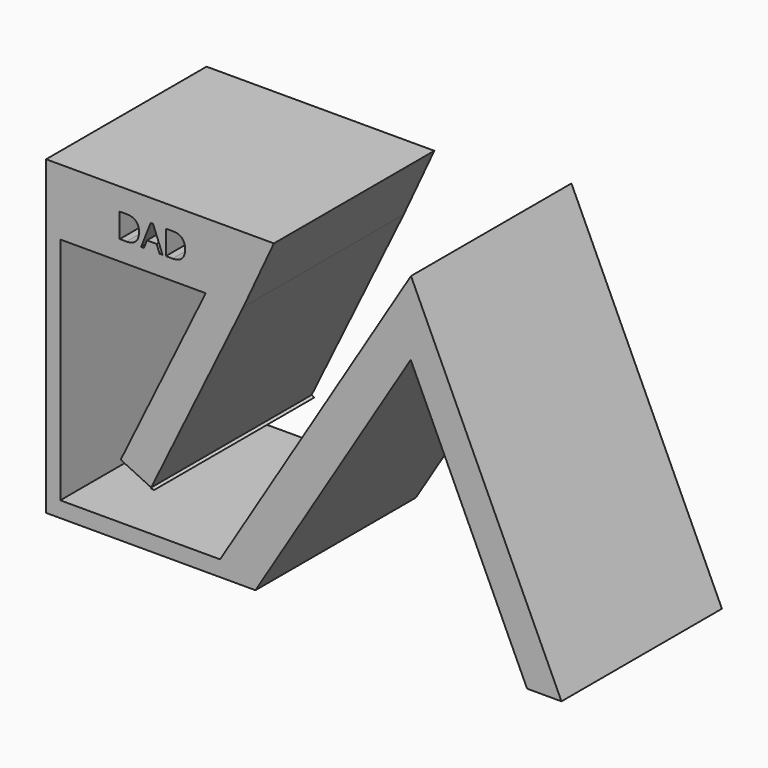
from build123d import *

# Parameters (mm, degrees)
F1_DEPTH = 25.4


with BuildPart() as f1:
    # F0 (on Front) → F1 (new body)
    with BuildSketch(Plane.XZ):
        Polygon((-14.4669092909, -10.910328379), (5.1957434184, 21.1789465251), (19.9311329773, -10.6970844829), (24.28571788, -10.6970844829), (5.2277326737, 30.5297134213), (-18.9465156888, -8.9224455917), (-39.1826219857, -8.9224455917), (-39.1826219857, 20.1574359089), (-20.7683040569, 20.1574359089), (-31.5304366217, -1.9054901972), (-27.6739607229, -3.7556812486), (-16.0093186147, 20.1574359089), (-12.1359187178, 28.5178888589), (-32.0774856955, 28.5178888589), (-40.9832447767, 28.5178888589), (-40.9832447767, -8.9224455917), (-40.9832447767, -10.910328379), align=None)
        with BuildLine():
            add(Edge.make_bspline(
                [(-29.6074078263, 25.3212274207), (-29.2115383781, 24.9253579726), (-29.2115383781, 24.2147371173)],
                knots=[0, 0, 0, 1, 1, 1], degree=2))
            add(Edge.make_bspline(
                [(-29.2115383781, 24.2147371173), (-29.2115383781, 23.4565180726), (-29.6231621566, 23.0552854482)],
                knots=[0, 0, 0, 1, 1, 1], degree=2))
            add(Edge.make_bspline(
                [(-29.6231621566, 23.0552854482), (-30.034785935, 22.6540528238), (-30.8077537144, 22.6540528238)],
                knots=[0, 0, 0, 1, 1, 1], degree=2))
            Line((-30.8077537144, 22.6540528238), (-31.6564763586, 22.6540528238))
            Line((-31.6564763586, 22.6540528238), (-31.6564763586, 25.7170968689))
            Line((-31.6564763586, 25.7170968689), (-30.717920512, 25.7170968689))
            add(Edge.make_bspline(
                [(-30.717920512, 25.7170968689), (-30.0032772745, 25.7170968689), (-29.6074078263, 25.3212274207)],
                knots=[0, 0, 0, 1, 1, 1], degree=2))
        make_face(mode=Mode.SUBTRACT)
        Polygon((-26.2343051533, 22.6540528238), (-26.6030235216, 22.6540528238), (-26.9844794335, 23.6281397132), (-28.2119764015, 23.6281397132), (-28.5887395342, 22.6540528238), (-28.9494131381, 22.6540528238), (-27.738676096, 25.7298344125), (-27.4390086221, 25.7298344125), align=None, mode=Mode.SUBTRACT)
        with BuildLine():
            add(Edge.make_bspline(
                [(-23.7642272841, 25.3212274207), (-23.368357836, 24.9253579726), (-23.368357836, 24.2147371173)],
                knots=[0, 0, 0, 1, 1, 1], degree=2))
            add(Edge.make_bspline(
                [(-23.368357836, 24.2147371173), (-23.368357836, 23.4565180726), (-23.7799816144, 23.0552854482)],
                knots=[0, 0, 0, 1, 1, 1], degree=2))
            add(Edge.make_bspline(
                [(-23.7799816144, 23.0552854482), (-24.1916053928, 22.6540528238), (-24.9645731722, 22.6540528238)],
                knots=[0, 0, 0, 1, 1, 1], degree=2))
            Line((-24.9645731722, 22.6540528238), (-25.8132958164, 22.6540528238))
            Line((-25.8132958164, 22.6540528238), (-25.8132958164, 25.7170968689))
            Line((-25.8132958164, 25.7170968689), (-24.8747399698, 25.7170968689))
            add(Edge.make_bspline(
                [(-24.8747399698, 25.7170968689), (-24.1600967323, 25.7170968689), (-23.7642272841, 25.3212274207)],
                knots=[0, 0, 0, 1, 1, 1], degree=2))
        make_face(mode=Mode.SUBTRACT)
    extrude(amount=F1_DEPTH)


with BuildPart() as f1b:
    # F0 (on Front) → F1, piece 2 (new body)
    with BuildSketch(Plane.XZ):
        Polygon((-27.3204874247, -3.9252643473), (-27.6739607229, -3.7556812486), (-27.723886267, -3.8580311857), align=None)
    extrude(amount=F1_DEPTH)


solid = Compound([f1.part, f1b.part])
